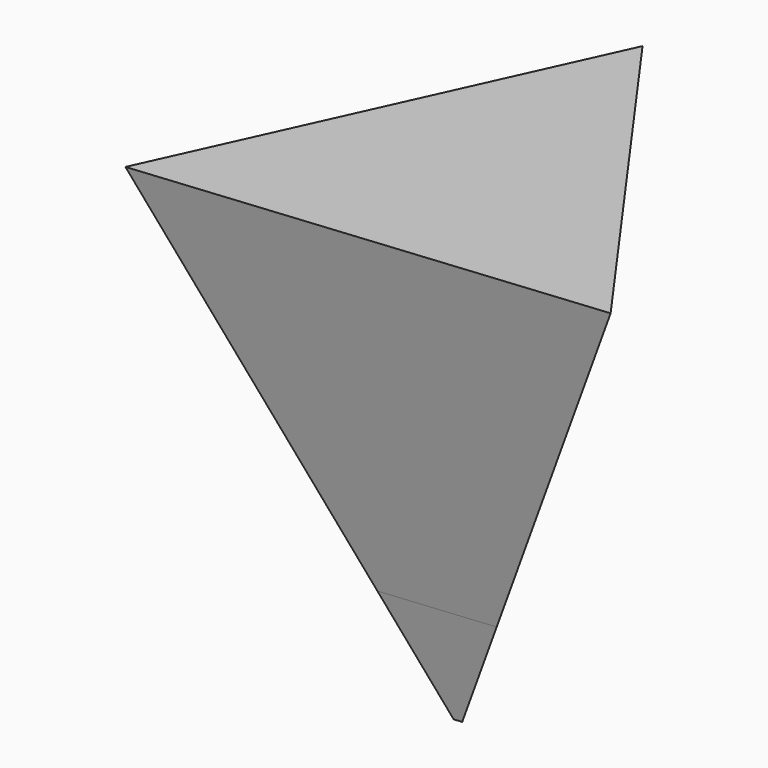
from build123d import *

# Parameters (mm, degrees)
F1_DEPTH      = 419.7245
F1_TAPER      = -15
F1_DEPTH_BACK = 127
F1_TAPER_BACK = 15


with BuildPart() as f1:
    # F0 (on Top) → F1 (new body, two sides)
    with BuildSketch(Plane.XY) as f1_sk:
        Polygon((56.382183052, -36.2995471189), (-17.3696639424, 67.0912893459), (-70.0328313423, -48.4751019597), align=None)
    extrude(amount=F1_DEPTH, taper=F1_TAPER)
    extrude(f1_sk.sketch, amount=-F1_DEPTH_BACK, taper=F1_TAPER_BACK)


solid = f1.part
